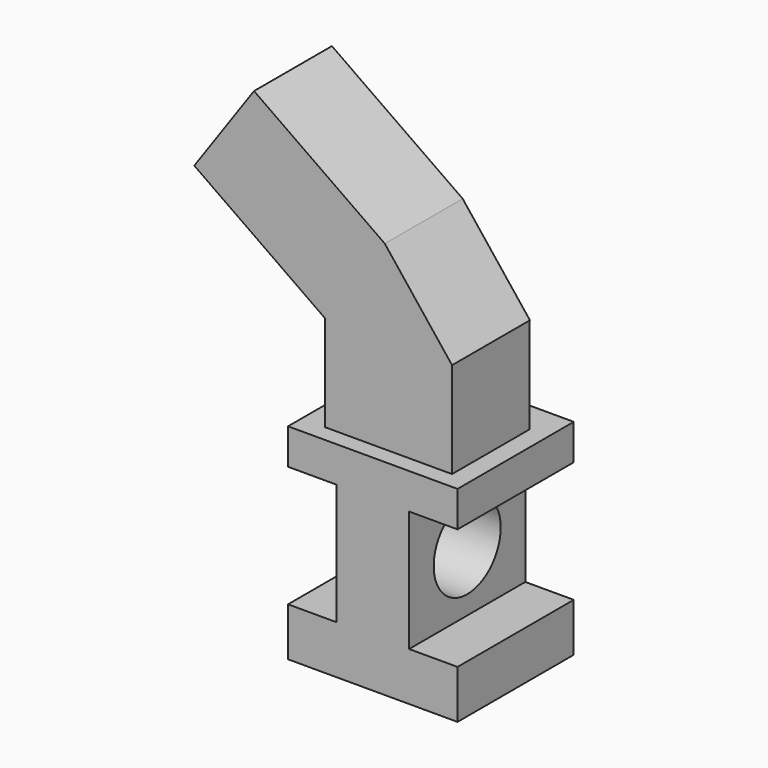
from build123d import *

# Parameters (mm, degrees)
F1_DEPTH = 76.2
F2_R     = 21.9538330402
F3_DEPTH = 63.501
F4_W     = 66.6200816631
F4_H     = 50.9327836335
F5_DEPTH = 50.292
F7_DEPTH = 51.054
F9_DEPTH = 83.82


with BuildPart() as f1:
    # F0 (on Front) → F1 (new body)
    with BuildSketch(Plane.XZ):
        Polygon((-43.6762087762, -9.6735172633), (-43.6762087762, -35.0735172633), (45.2237912238, -35.0735172633), (45.2237912238, -9.6735172633), (19.8237912238, -9.6735172633), (19.8237912238, 53.8264827367), (45.2237912238, 53.8264827367), (45.2237912238, 72.5250117484), (-43.6762087762, 72.5250117484), (-43.6762087762, 53.8264827367), (-18.2762087762, 53.8264827367), (-18.2762087762, -9.6735172633), align=None)
    extrude(amount=F1_DEPTH)

    # F2 (on face) → F3 (cut, through all)
    with BuildSketch(Plane.YZ.offset(19.8237912238)):
        with Locations((-38.1, 22.0764827367)):
            Circle(F2_R)
    extrude(amount=-F3_DEPTH, mode=Mode.SUBTRACT)

    # F4 (on face) → F5 (join)
    with BuildSketch(Plane.XY.offset(72.5250117484)):
        with Locations((1.9566230476, -41.8805312365)):
            Rectangle(F4_W, F4_H)
    extrude(amount=F5_DEPTH)

    # F6 (on face) → F7 (join)
    with BuildSketch(Plane.XZ.offset(67.3469230533)):
        Polygon((0, 167.4694269896), (-31.353417784, 122.8170117484), (35.2666638792, 122.8170117484), align=None)
    extrude(amount=-F7_DEPTH)

    # F9 (add): a face of the model
    f9_faces = [f1.faces().sort_by_distance(p)[0] for p in [
        (-15.676708892, -41.8199230533, 145.143219369),
    ]]
    extrude(f9_faces, amount=F9_DEPTH)


solid = f1.part
